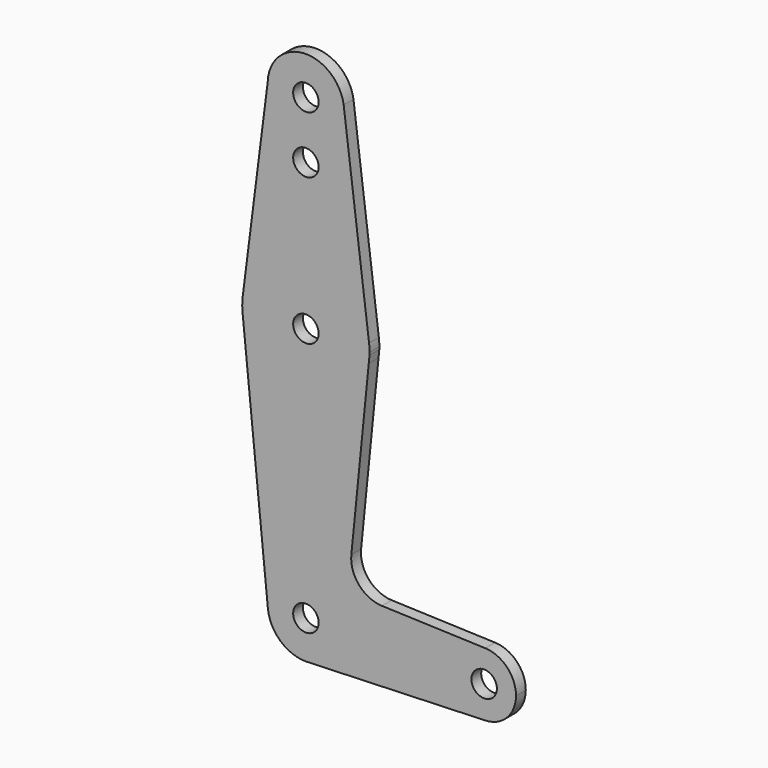
from build123d import *

# Parameters (mm, degrees)
F0_R     = 3.175
F1_DEPTH = 3.048


with BuildPart() as f1:
    # F0 (on Front) → F1 (new body)
    with BuildSketch(Plane.XZ):
        with BuildLine():
            Line((9.4743598549, 115.2808824293), (9.4214528409, 115.7006610464))
            ThreePointArc((9.4214528409, 115.7006610464), (-0.550879303, 123.8090565775), (-9.5201687818, 114.603333753))
            ThreePointArc((-9.5201687818, 114.603333753), (-0.1516861121, 104.7762078811), (9.525, 114.3))
            ThreePointArc((9.525, 114.3), (9.5123315391, 114.7910943811), (9.4743598549, 115.2808824293))
        make_face()
        with Locations((0, 114.3)):
            Circle(F0_R, mode=Mode.SUBTRACT)
        with BuildLine():
            ThreePointArc((15.7503957517, 65.4851092328), (0.0062972776, 79.374998751), (-15.7488158931, 65.4976043066))
            ThreePointArc((-15.7488158931, 65.4976043066), (-15.8692172441, 63.9284496012), (-15.8336601209, 62.3550842063))
            Line((-15.8336601209, 62.3550842063), (-15.745218376, 61.4742351339))
            ThreePointArc((-15.745218376, 61.4742351339), (-0.2548038703, 47.627045014), (15.6720844584, 60.9699024269))
            Line((15.6720844584, 60.9699024269), (15.862703929, 62.8753008249))
            ThreePointArc((15.862703929, 62.8753008249), (15.8719256846, 63.1875899118), (15.875, 63.5))
            ThreePointArc((15.875, 63.5), (15.8438183144, 64.4945080297), (15.7503957517, 65.4851092328))
        make_face()
        with Locations((0, 63.5)):
            Circle(F0_R, mode=Mode.SUBTRACT)
        with BuildLine():
            ThreePointArc((9.525, 114.3), (-0.1516861121, 104.7762078811), (-9.5201687818, 114.603333753))
            Line((-9.5201687818, 114.603333753), (-15.7488158931, 65.4976043066))
            ThreePointArc((-15.7488158931, 65.4976043066), (0.0062972776, 79.374998751), (15.7503957517, 65.4851092328))
            Line((15.7503957517, 65.4851092328), (9.4743598549, 115.2808824293))
            ThreePointArc((9.4743598549, 115.2808824293), (9.5123315391, 114.7910943811), (9.525, 114.3))
        make_face()
        with Locations((0, 100.0252)):
            Circle(F0_R, mode=Mode.SUBTRACT)
        with BuildLine():
            ThreePointArc((15.6720844584, 60.9699024269), (-0.2548038703, 47.627045014), (-15.745218376, 61.4742351339))
            Line((-15.745218376, 61.4742351339), (-9.4773483422, -0.95157417))
            ThreePointArc((-9.4773483422, -0.95157417), (-0.4763832705, 9.5130796265), (9.525, 0))
            ThreePointArc((9.525, 0), (6.9705567315, -6.4912990883), (0.6773435479, -9.500885786))
            Line((0.6773435479, -9.500885786), (44.7324052746, -7.9324746146))
            ThreePointArc((44.7324052746, -7.9324746146), (36.5125, 0), (44.7324052746, 7.9324746146))
            Line((44.7324052746, 7.9324746146), (18.9597937139, 8.8500094063))
            ThreePointArc((18.9597937139, 8.8500094063), (13.2538654684, 11.5663969785), (11.3319389073, 17.5865777796))
            Line((11.3319389073, 17.5865777796), (15.6720844584, 60.9699024269))
        make_face()
        with BuildLine():
            ThreePointArc((9.525, 0), (-0.4763832705, 9.5130796265), (-9.4773483422, -0.95157417))
            ThreePointArc((-9.4773483422, -0.95157417), (-6.3899092729, -7.0636169548), (0, -9.525))
            Line((0, -9.525), (0.6773435479, -9.500885786))
            ThreePointArc((0.6773435479, -9.500885786), (6.9705567315, -6.4912990883), (9.525, 0))
        make_face()
        Circle(F0_R, mode=Mode.SUBTRACT)
        with BuildLine():
            ThreePointArc((52.3875, 0), (50.1616327839, 5.5119104847), (44.7324052746, 7.9324746146))
            ThreePointArc((44.7324052746, 7.9324746146), (36.5125, 0), (44.7324052746, -7.9324746146))
            ThreePointArc((44.7324052746, -7.9324746146), (50.1616327839, -5.5119104847), (52.3875, 0))
        make_face()
        with Locations((44.45, 0)):
            Circle(F0_R, mode=Mode.SUBTRACT)
    extrude(amount=F1_DEPTH)


solid = f1.part
